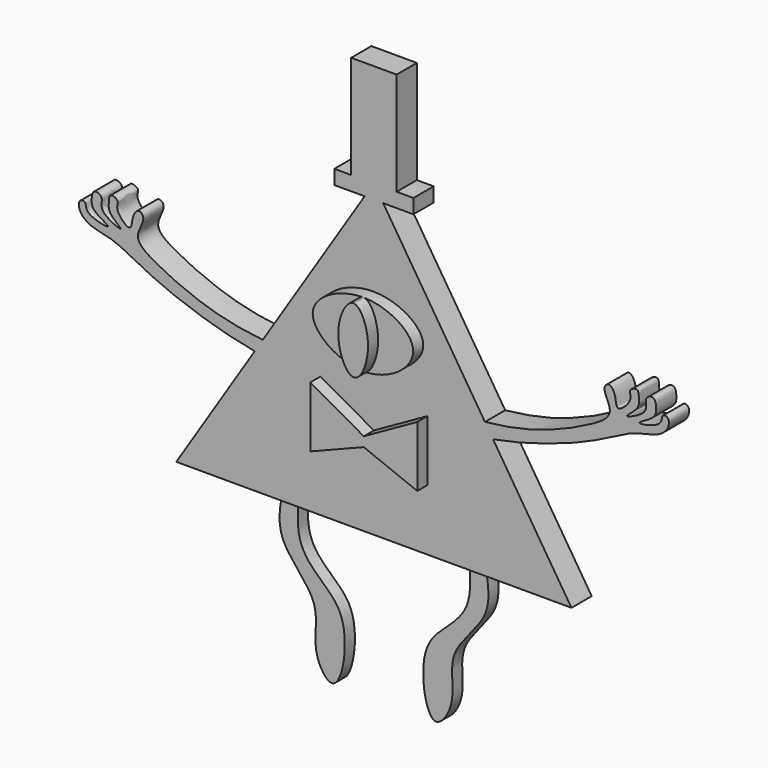
from build123d import *

# Parameters (mm, degrees)
F1_DEPTH  = 2
F3_DEPTH  = 1
F5_DEPTH  = 1
F7_DEPTH  = 1
F9_DEPTH  = 1
F12_DEPTH = 2
F15_DEPTH = 2


with BuildPart() as f1:
    # F0 (on Front) → F1 (new body)
    with BuildSketch(Plane.XZ):
        Polygon((15.6205212697, 22.3904065788), (0, 46.8616522849), (-15.6205212697, 22.3904065788), (0, 22.3904065788), align=None)
    extrude(amount=F1_DEPTH)

    # F2 (on face) → F3 (join)
    with BuildSketch(Plane.XZ.offset(2)):
        with BuildLine():
            add(Edge.make_bspline(
                [(-4.0349592455, 36.9081757963), (-4.0087917554, 38.1858308355), (0.0249684195, 40.4607762304), (5.8343924038, 36.953808783), (0.0134213075, 32.7406191639), (-4.0616354125, 35.6056840712), (-4.0349592455, 36.9081757963)],
                knots=[0, 0, 0, 0, 0.2490487858, 0.495788159, 0.7461098867, 1, 1, 1, 1], degree=3))
        make_face()
    extrude(amount=F3_DEPTH)

    # F4 (on face) → F5 (join)
    with BuildSketch(Plane.XZ.offset(3)):
        with BuildLine():
            add(Edge.make_bspline(
                [(0.0217100728, 34.1641122458), (0.5915584332, 34.1814496362), (1.6747703883, 36.7010599903), (0.5929011025, 39.2844102571), (0, 39.3092930317)],
                knots=[0.5045569869, 0.5045569869, 0.5045569869, 0.5045569869, 0.7482513312, 1, 1, 1, 1], degree=3))
            add(Edge.make_bspline(
                [(-0.0288990093, 39.3094922938), (-0.0192651296, 39.3094532254), (-0.0096320483, 39.309386844), (0, 39.3092930317)],
                knots=[0.2478387836, 0.2478387836, 0.2478387836, 0.2478387836, 0.2490487858, 0.2490487858, 0.2490487858, 0.2490487858], degree=3))
            add(Edge.make_bspline(
                [(-0.0288990093, 39.3094922938), (-0.5975127804, 39.293616949), (-1.831672015, 36.8643236509), (-0.6005546173, 34.1786399474), (-5.75e-08, 34.1640450074)],
                knots=[0.0040858105, 0.0040858105, 0.0040858105, 0.0040858105, 0.2450266899, 0.5014646337, 0.5014646337, 0.5014646337, 0.5014646337], degree=3))
            add(Edge.make_bspline(
                [(0.0217100728, 34.1641122458), (0.0144739922, 34.1640711591), (0.0072372701, 34.1640487212), (0, 34.164045006)],
                knots=[0.7451955795, 0.7451955795, 0.7451955795, 0.7451955795, 0.7461098867, 0.7461098867, 0.7461098867, 0.7461098867], degree=3))
        make_face()
    extrude(amount=F5_DEPTH)

    # F6 (on face) → F7 (join)
    with BuildSketch(Plane.XZ.offset(2)):
        Polygon((4.230374936, 32.0270434022), (0, 29.6538583934), (-4.230374936, 32.0270434022), (-4.230374936, 27.222789824), (0, 28.9013851434), (4.230374936, 27.222789824), align=None)
    extrude(amount=F7_DEPTH)

    # F10: F9 across plane


with BuildPart() as f9:
    # F8 (on Front) → F9 (new body)
    with BuildSketch(Plane.XZ):
        with BuildLine():
            Line((-6.7599997856, 22.4247518927), (-8.0157648772, 22.4818326533))
            add(Edge.make_bspline(
                [(-8.0157648772, 22.4818326533), (-8.2333554622, 21.2892046586), (-8.6920186649, 18.7752421374), (-4.7270627461, 15.7046275926), (-5.8799647403, 12.2189825791), (-4.0760268467, 9.6085518705), (-3.0213236779, 11.8528329107), (-3.0138994905, 15.4215199516), (-4.8613071792, 17.095226124), (-6.9627613149, 19.0480713018), (-6.829930659, 21.2601610373), (-6.7599997856, 22.4247518927)],
                knots=[0, 0, 0, 0, 0.1214620006, 0.2560319886, 0.3766197826, 0.4707227647, 0.5534511201, 0.6759282557, 0.7767217162, 0.8824514922, 1, 1, 1, 1], degree=3))
        make_face()
    extrude(amount=F9_DEPTH)


with BuildPart() as f1_1:
    add(f1.part)
    add(f9.part.mirror(Plane.YZ))

    # F13: F12 across plane


with BuildPart() as f12:
    # F11 (on Front) → F12 (new body)
    with BuildSketch(Plane.XZ):
        with BuildLine():
            Line((-9.342296049, 32.0916026831), (-8.6780907586, 33.0942571163))
            add(Edge.make_bspline(
                [(-8.6780907586, 33.0942571163), (-10.2354259806, 33.2388768053), (-13.221284568, 33.7985497855), (-17.2475480682, 35.6094522432), (-19.1428334613, 36.9464675138), (-17.938793363, 38.4802069342), (-18.6653667048, 39.1099949054), (-19.1586844818, 38.2577071646), (-19.1286707298, 37.0122693596), (-20.5709891398, 38.4104996981), (-20.0385301821, 39.0724796793), (-20.926678844, 39.4240468943), (-20.941680024, 38.717637889), (-21.0544969238, 37.9435164032), (-19.335817175, 36.8003958092), (-21.4314923182, 37.6755309422), (-21.5726816368, 38.3792095305), (-21.4279719631, 38.995071547), (-22.2478463296, 39.2871866939), (-22.3449687539, 38.344145948), (-22.2333563913, 37.6526005451), (-20.1088033929, 36.7264073698), (-22.9340936942, 37.2667846433), (-22.6670407268, 38.1908340185), (-23.3379097021, 38.199041394), (-23.3737221612, 37.2922693101), (-22.3433146707, 36.4731822648), (-20.4900689124, 36.3186571751), (-17.6420375044, 34.5957683317), (-13.5276522678, 33.0574011997), (-10.7438834509, 32.3341784859), (-9.342296049, 32.0916026831)],
                knots=[0, 0, 0, 0, 0.0655650882, 0.1298964713, 0.1705411465, 0.2073069623, 0.2291057518, 0.2566550675, 0.2833681513, 0.3183239583, 0.3423242682, 0.3650616268, 0.3864012173, 0.414354834, 0.4462649835, 0.4812477722, 0.5074635846, 0.5294273669, 0.5518136346, 0.5773652927, 0.6044046882, 0.6376472711, 0.676421479, 0.7014017979, 0.7197322752, 0.7447494515, 0.7777382585, 0.818258527, 0.873077132, 0.9370851719, 1, 1, 1, 1], degree=3))
        make_face()
    extrude(amount=F12_DEPTH)


with BuildPart() as f1_2:
    add(f1_1.part)
    add(f12.part.mirror(Plane.YZ))


    add(f9.part)  # F15 merges F9

    add(f12.part)  # F15 merges F12
    # F14 (on Front) → F15 (join)
    with BuildSketch(Plane.XZ):
        Polygon((-3.1245604623, 45.7125492394), (0, 45.7125492394), (3.1245604623, 45.7125492394), (3.1245604623, 46.8491017818), (1.7979005352, 46.8491017818), (0, 46.8491017818), (-1.7979005352, 46.8491017818), (-3.1245604623, 46.8491017818), align=None)
        Polygon((-1.7979005352, 55.0067201257), (-1.7979005352, 46.8491017818), (0, 46.8491017818), (1.7979005352, 46.8491017818), (1.7979005352, 55.0067201257), (0, 55.0067201257), align=None)
    extrude(amount=F15_DEPTH)


solid = f1_2.part
